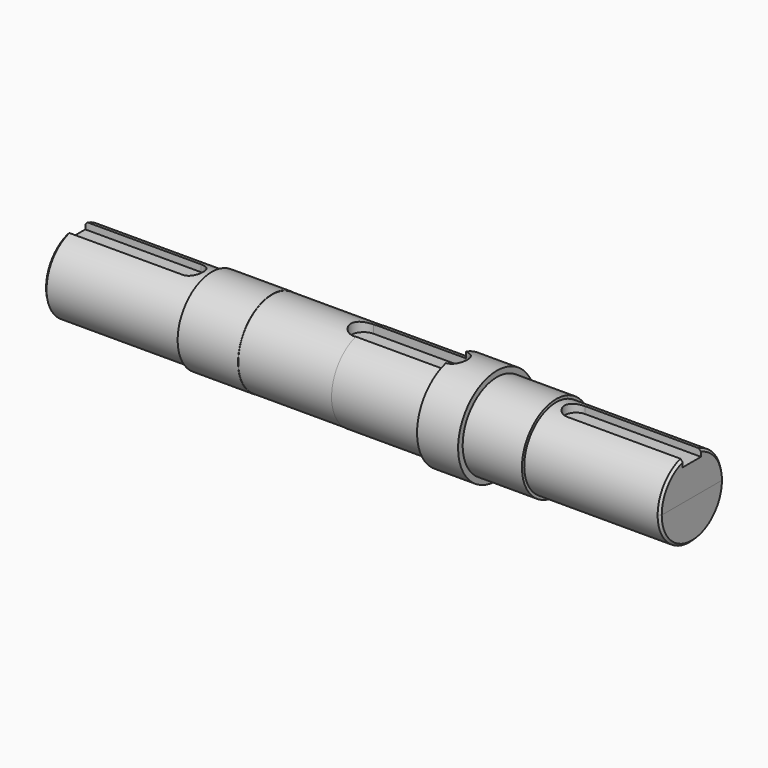
from build123d import *

# Parameters (mm, degrees)
F4_DEPTH  = 7.5
F7_DEPTH  = 9
F8_DEPTH  = 14.001
F9_W      = 61.8011951447
F9_H      = 108.7959855795
F9_W_2    = 52.8042912483
F9_H_2    = 139.1329020262
F10_DEPTH = 42.5010001
F11_DEPTH = 42.5010001
F12_SIZE  = 2


with BuildPart() as f1:
    # F0 (on Front) → F1 (revolve)
    with BuildSketch(Plane.XZ):
        Polygon((-291, 35), (-291, 0), (291, 0), (291, 35), (151, 35), (151, 37.5), (99, 37.5), (99, 42.5), (63, 42.5), (63, 37.5), (-16, 37.5), (-16, 37.3), (-98, 37.3), (-98, 37.5), (-151, 37.5), (-151, 35), align=None)
    revolve(axis=Axis((0, 0, 0), (-1, 0, 0)))

    # F3 (on offset) → F4 (cut)
    with BuildSketch(Plane.XY.offset(35)):
        with BuildLine():
            Line((-168.5, 10), (-273.5, 10))
            ThreePointArc((-273.5, 10), (-266.4289321881, 7.0710678119), (-263.5, 0))
            ThreePointArc((-263.5, 0), (-266.4289321881, -7.0710678119), (-273.5, -10))
            Line((-273.5, -10), (-168.5, -10))
            ThreePointArc((-168.5, -10), (-178.5, 0), (-168.5, 10))
        make_face()
        with BuildLine():
            ThreePointArc((-263.5, 0), (-266.4289321881, 7.0710678119), (-273.5, 10))
            Line((-273.5, 10), (-273.5, -10))
            ThreePointArc((-273.5, -10), (-266.4289321881, -7.0710678119), (-263.5, 0))
        make_face()
        with BuildLine():
            Line((-273.5, -10), (-273.5, 10))
            ThreePointArc((-273.5, 10), (-283.5, 0), (-273.5, -10))
        make_face()
        with BuildLine():
            Line((-168.5, -10), (-168.5, 10))
            ThreePointArc((-168.5, 10), (-178.5, 0), (-168.5, -10))
        make_face()
        with BuildLine():
            ThreePointArc((-158.5, 0), (-161.4289321881, 7.0710678119), (-168.5, 10))
            Line((-168.5, 10), (-168.5, -10))
            ThreePointArc((-168.5, -10), (-161.4289321881, -7.0710678119), (-158.5, 0))
        make_face()
        with BuildLine():
            Line((168.5, -10), (168.5, 10))
            ThreePointArc((168.5, 10), (158.5, 0), (168.5, -10))
        make_face()
        with BuildLine():
            ThreePointArc((178.5, 0), (175.5710678119, 7.0710678119), (168.5, 10))
            Line((168.5, 10), (168.5, -10))
            ThreePointArc((168.5, -10), (175.5710678119, -7.0710678119), (178.5, 0))
        make_face()
        with BuildLine():
            Line((273.5, -10), (273.5, 10))
            ThreePointArc((273.5, 10), (263.5, 0), (273.5, -10))
        make_face()
        with BuildLine():
            ThreePointArc((283.5, 0), (280.5710678119, 7.0710678119), (273.5, 10))
            Line((273.5, 10), (273.5, -10))
            ThreePointArc((273.5, -10), (280.5710678119, -7.0710678119), (283.5, 0))
        make_face()
        with BuildLine():
            Line((273.5, 10), (168.5, 10))
            ThreePointArc((168.5, 10), (175.5710678119, 7.0710678119), (178.5, 0))
            ThreePointArc((178.5, 0), (175.5710678119, -7.0710678119), (168.5, -10))
            Line((168.5, -10), (273.5, -10))
            ThreePointArc((273.5, -10), (263.5, 0), (273.5, 10))
        make_face()
    extrude(amount=-F4_DEPTH, mode=Mode.SUBTRACT)

    # F6 (on offset) → F7 (cut)
    with BuildSketch(Plane.XY.offset(37.5)):
        with BuildLine():
            ThreePointArc((73.1, 0), (69.8781745931, 7.7781745931), (62.1, 11))
            Line((62.1, 11), (62.1, -11))
            ThreePointArc((62.1, -11), (69.8781745931, -7.7781745931), (73.1, 0))
        make_face()
        with BuildLine():
            Line((62.1, 11), (-17.9, 11))
            ThreePointArc((-17.9, 11), (-10.1218254069, 7.7781745931), (-6.9, 0))
            ThreePointArc((-6.9, 0), (-10.1218254069, -7.7781745931), (-17.9, -11))
            Line((-17.9, -11), (62.1, -11))
            ThreePointArc((62.1, -11), (51.1, 0), (62.1, 11))
        make_face()
        with BuildLine():
            Line((62.1, -11), (62.1, 11))
            ThreePointArc((62.1, 11), (51.1, 0), (62.1, -11))
        make_face()
        with BuildLine():
            Line((-17.9, -11), (-17.9, 11))
            ThreePointArc((-17.9, 11), (-28.9, 0), (-17.9, -11))
        make_face()
        with BuildLine():
            ThreePointArc((-6.9, 0), (-10.1218254069, 7.7781745931), (-17.9, 11))
            Line((-17.9, 11), (-17.9, -11))
            ThreePointArc((-17.9, -11), (-10.1218254069, -7.7781745931), (-6.9, 0))
        make_face()
    extrude(amount=-F7_DEPTH, mode=Mode.SUBTRACT)

    # F8 (cut, through all): a face of the model
    f8_faces = [f1.faces().sort_by_distance(p)[0] for p in [
        (22.1, 0, 28.5),
    ]]
    extrude(f8_faces, amount=F8_DEPTH, mode=Mode.SUBTRACT)

    # F9 (on Top) → F10 (cut, through all)
    with BuildSketch(Plane.XY):
        with Locations((-300.9005975723, 0)):
            Rectangle(F9_W, F9_H)
        with Locations((296.4021456242, 0)):
            Rectangle(F9_W_2, F9_H_2)
    extrude(amount=-F10_DEPTH, mode=Mode.SUBTRACT)

    # F11 (cut, through all): faces of the model
    f11_faces = [f1.faces().sort_by_distance(p)[0] for p in [
        (-280.5, 0, 0),
        (280.5, 0, 0),
    ]]
    extrude(f11_faces, amount=-F11_DEPTH, mode=Mode.SUBTRACT)

    # F12
    f12_edges = [f1.edges().sort_by_distance(p)[0] for p in [
        (-270, 0, -35),
        (270, 0, -35),
    ]]
    chamfer(f12_edges, length=F12_SIZE)


solid = f1.part
